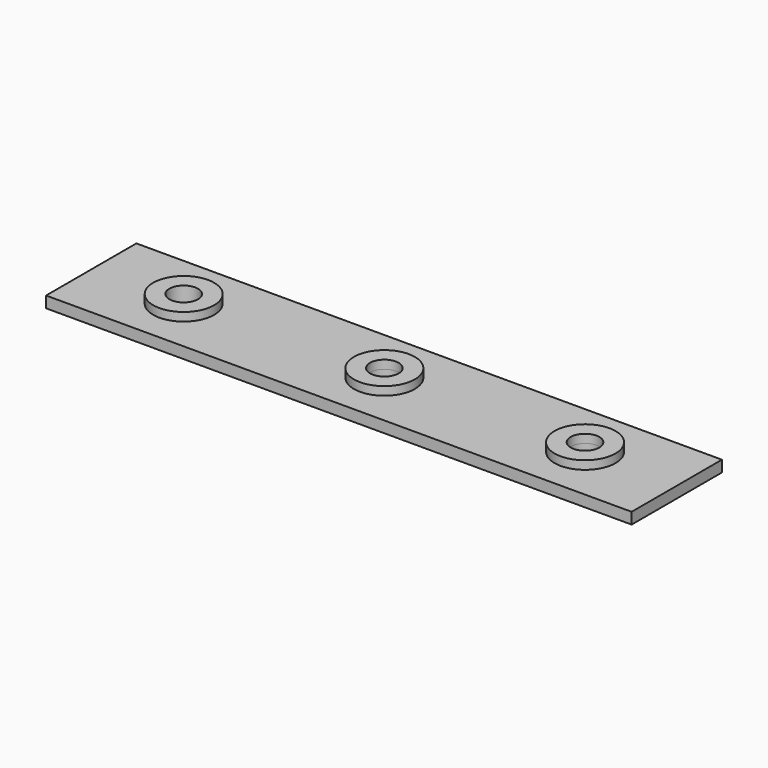
from build123d import *

# Parameters (mm, degrees)
F0_W     = 20
F0_H     = 2
F1_DEPTH = 103.759
F2_R     = 2.54
F3_DEPTH = 12.7
F4_R     = 5.4
F4_R_2   = 2.54
F5_DEPTH = 1.5


with BuildPart() as f1:
    # F0 (on Right) → F1 (new body)
    with BuildSketch(Plane.YZ):
        with Locations((10, 1)):
            Rectangle(F0_W, F0_H)
    extrude(amount=F1_DEPTH)

    # F2 (on face) → F3 (cut, symmetric)
    with BuildSketch(Plane(origin=(0, 0, 0), x_dir=(1, 0, 0), z_dir=(0, 0, -1))):
        with Locations((87.503, -10)):
            Circle(F2_R)
        with Locations((16.383, -10)):
            Circle(F2_R)
        with Locations((51.943, -10)):
            Circle(F2_R)
    extrude(amount=F3_DEPTH, both=True, mode=Mode.SUBTRACT)

    # F4 (on face) → F5 (join)
    with BuildSketch(Plane.XY.offset(2)):
        with Locations((16.383, 10)):
            Circle(F4_R)
        with Locations((16.383, 10)):
            Circle(F4_R_2, mode=Mode.SUBTRACT)
        with Locations((51.943, 10)):
            Circle(F4_R)
        with Locations((51.943, 10)):
            Circle(F4_R_2, mode=Mode.SUBTRACT)
        with Locations((87.503, 10)):
            Circle(F4_R)
        with Locations((87.503, 10)):
            Circle(F4_R_2, mode=Mode.SUBTRACT)
    extrude(amount=F5_DEPTH)


solid = f1.part
